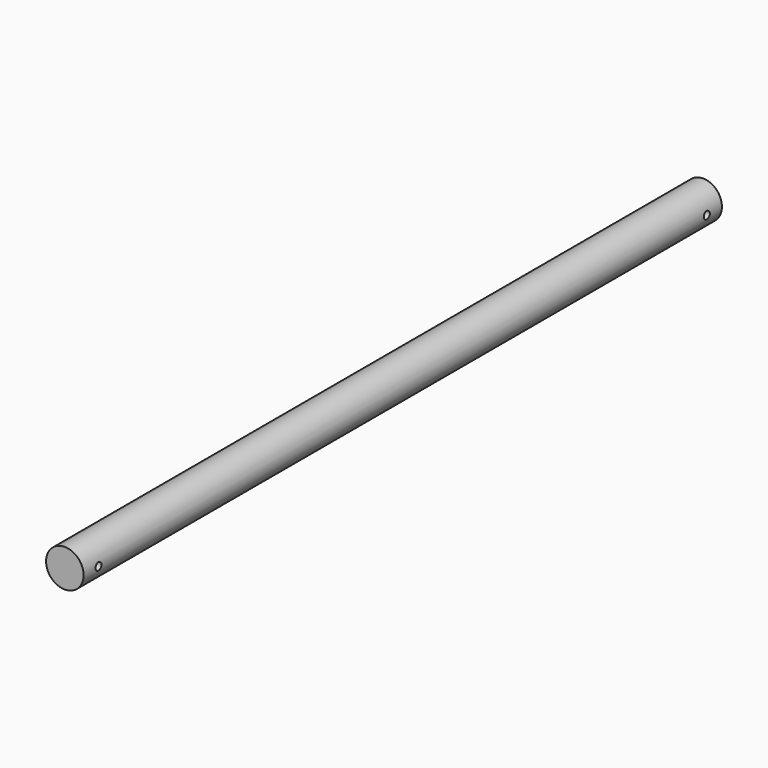
from build123d import *

# Parameters (mm, degrees)
CYLINDER_R             = 12.7
CYLINDER_DEPTH         = 539.75
CYLINDER_ROLL_ANGLE    = 90
BASEFEATURE_ROLL_ANGLE = -90
SKETCH_R               = 2.54
POCKET_DEPTH           = 25.401
BODY_ROLL_ANGLE        = 90


with BuildPart() as part:
    # Cylinder → Cylinder (new body)
    with BuildSketch(Plane.XY):
        Circle(CYLINDER_R)
    extrude(amount=CYLINDER_DEPTH)


with BuildPart() as part_1:
    # Cylinder roll: moved
    add(part.part.rotate(Axis((0, 0, 0), (1, 0, 0)), CYLINDER_ROLL_ANGLE))


with BuildPart() as part_2:
    # Cylinder placement: moved
    add(part_1.part)


with BuildPart() as part_3:
    # BaseFeature roll: moved
    add(part_2.part.rotate(Axis((0, 0, 0), (1, 0, 0)), BASEFEATURE_ROLL_ANGLE))


with BuildPart() as part_4:
    # BaseFeature placement: moved
    add(part_3.part)

    # Sketch (on DatumPlane) → Pocket (cut, through all)
    with BuildSketch(Plane(origin=(12.7, 0, 269.875), x_dir=(0, -1, 0), z_dir=(1, 0, 0))):
        with Locations((0, -257.175)):
            Circle(SKETCH_R)
        with Locations((0, 257.175)):
            Circle(SKETCH_R)
    extrude(amount=-POCKET_DEPTH, mode=Mode.SUBTRACT)


with BuildPart() as part_5:
    # Body roll: moved
    add(part_4.part.rotate(Axis((0, 0, 0), (1, 0, 0)), BODY_ROLL_ANGLE))


with BuildPart() as part_6:
    # Body placement: moved
    add(part_5.part)


solid = part_6.part
